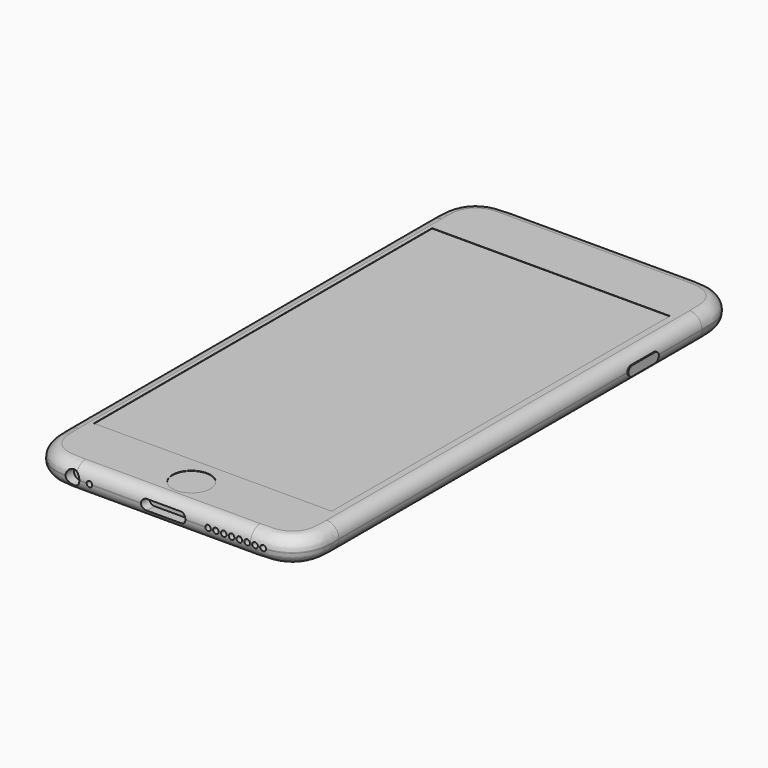
from build123d import *

# Parameters (mm, degrees)
F0_R           = 2.055
F0_R_2         = 0.8
F0_R_3         = 3.83
F1_DEPTH       = 7.3
F2_DEPTH       = 0.67
F3_DEPTH       = 0.1
F4_R           = 5.45
F5_DEPTH       = 0.1
F4_W           = 68.36
F4_H           = 121.54
F6_DEPTH       = 0.1
F10_R          = 3.55
F11_DEPTH      = 3
F11_DEPTH_BACK = 1
F7_R           = 0.8
F13_DEPTH      = 0.3
F14_DEPTH      = 0.3
F15_DEPTH      = 0.43


with BuildPart() as f1:
    # F0 (on Top) → F1 (new body)
    with BuildSketch(Plane.XY):
        with BuildLine():
            Line((-25.09, -79.36), (25.09, -79.36))
            add(Edge.make_bspline(
                [(25.09, -79.36), (25.59, -79.36), (29.3970719372, -79.3863132945), (32.8157812057, -78.6105951637), (36.313364005, -76.453364005), (38.4705951637, -72.9557812057), (39.2463132945, -69.5370719372), (39.22, -65.73), (39.22, -65.23)],
                knots=[0, 0, 0, 0, 0.1670203426, 0.3335413986, 0.5, 0.6664586014, 0.8329796574, 1, 1, 1, 1], degree=3))
            Line((39.22, -65.23), (39.22, 65.23))
            add(Edge.make_bspline(
                [(25.09, 79.36), (25.59, 79.36), (29.3970719372, 79.3863132945), (32.8157812057, 78.6105951637), (36.313364005, 76.453364005), (38.4705951637, 72.9557812057), (39.2463132945, 69.5370719372), (39.22, 65.73), (39.22, 65.23)],
                knots=[0, 0, 0, 0, 0.1670203426, 0.3335413986, 0.5, 0.6664586014, 0.8329796574, 1, 1, 1, 1], degree=3))
            Line((25.09, 79.36), (-25.09, 79.36))
            add(Edge.make_bspline(
                [(-25.09, 79.36), (-25.59, 79.36), (-29.3970719372, 79.3863132945), (-32.8157812057, 78.6105951637), (-36.313364005, 76.453364005), (-38.4705951637, 72.9557812057), (-39.2463132945, 69.5370719372), (-39.22, 65.73), (-39.22, 65.23)],
                knots=[0, 0, 0, 0, 0.1670203426, 0.3335413986, 0.5, 0.6664586014, 0.8329796574, 1, 1, 1, 1], degree=3))
            Line((-39.22, 65.23), (-39.22, -65.23))
            add(Edge.make_bspline(
                [(-25.09, -79.36), (-25.59, -79.36), (-29.3970719372, -79.3863132945), (-32.8157812057, -78.6105951637), (-36.313364005, -76.453364005), (-38.4705951637, -72.9557812057), (-39.2463132945, -69.5370719372), (-39.22, -65.73), (-39.22, -65.23)],
                knots=[0, 0, 0, 0, 0.1670203426, 0.3335413986, 0.5, 0.6664586014, 0.8329796574, 1, 1, 1, 1], degree=3))
        make_face()
        with Locations((13.06, 72.09)):
            Circle(F0_R, mode=Mode.SUBTRACT)
        with Locations((18.16, 72.09)):
            Circle(F0_R_2, mode=Mode.SUBTRACT)
        with Locations((25.12, 72.09)):
            Circle(F0_R_3, mode=Mode.SUBTRACT)
        with Locations((25.12, 72.09)):
            Circle(F0_R_3)
        with Locations((18.16, 72.09)):
            Circle(F0_R_2)
        with Locations((13.06, 72.09)):
            Circle(F0_R)
    extrude(amount=F1_DEPTH)

    # F0 (on Top) → F2 (join)
    with BuildSketch(Plane.XY):
        with Locations((25.12, 72.09)):
            Circle(F0_R_3)
    extrude(amount=-F2_DEPTH)

    # F0 (on Top) → F3 (cut)
    with BuildSketch(Plane.XY):
        with Locations((13.06, 72.09)):
            Circle(F0_R)
        with Locations((18.16, 72.09)):
            Circle(F0_R_2)
    extrude(amount=F3_DEPTH, mode=Mode.SUBTRACT)

    # F4 (on face) → F5 (cut)
    with BuildSketch(Plane.XY.offset(7.3)):
        with Locations((0.32, -69.6)):
            Circle(F4_R)
    extrude(amount=-F5_DEPTH, mode=Mode.SUBTRACT)

    # F4 (on face) → F6 (cut)
    with BuildSketch(Plane.XY.offset(7.3)):
        with Locations((-0.33, -0.33)):
            Rectangle(F4_W, F4_H)
    extrude(amount=-F6_DEPTH, mode=Mode.SUBTRACT)

    # F10
    f10_edges = [f1.edges().sort_by_distance(p)[0] for p in [
        (0, 79.36, 0),
        (0, 79.36, 7.3),
    ]]
    fillet(f10_edges, radius=F10_R)


with BuildPart() as f11:
    # F7 (on face) → F11 (new body, two sides)
    with BuildSketch(Plane.XZ.offset(79.36)) as f11_sk:
        with BuildLine():
            Line((-25.09, 1.9064117459), (-25.09, 5.3935882541))
            ThreePointArc((-25.09, 5.3935882541), (-28.1, 3.65), (-25.09, 1.9064117459))
        make_face()
        with BuildLine():
            ThreePointArc((-25.09, 1.9064117459), (-24.350732913, 2.6425031017), (-24.08, 3.65))
            ThreePointArc((-24.08, 3.65), (-24.350732913, 4.6574968983), (-25.09, 5.3935882541))
            Line((-25.09, 5.3935882541), (-25.09, 1.9064117459))
        make_face()
    extrude(amount=-F11_DEPTH)
    extrude(f11_sk.sketch, amount=F11_DEPTH_BACK)


with BuildPart() as f11b:
    # F7 (on face) → F11, piece 2 (new body, two sides)
    with BuildSketch(Plane.XZ.offset(79.36)) as f11_2_sk:
        with Locations((-21.2, 3.65)):
            Circle(F7_R)
    extrude(amount=-F11_DEPTH)
    extrude(f11_2_sk.sketch, amount=F11_DEPTH_BACK)


with BuildPart() as f11c:
    # F7 (on face) → F11, piece 3 (new body, two sides)
    with BuildSketch(Plane.XZ.offset(79.36)) as f11_3_sk:
        with BuildLine():
            Line((4.92, 5.125), (-4.92, 5.125))
            ThreePointArc((-4.92, 5.125), (-6.395, 3.65), (-4.92, 2.175))
            Line((-4.92, 2.175), (4.92, 2.175))
            ThreePointArc((4.92, 2.175), (5.9629825023, 2.6070174977), (6.395, 3.65))
            ThreePointArc((6.395, 3.65), (5.9629825023, 4.6929825023), (4.92, 5.125))
        make_face()
    extrude(amount=-F11_DEPTH)
    extrude(f11_3_sk.sketch, amount=F11_DEPTH_BACK)


with BuildPart() as f11d:
    # F7 (on face) → F11, piece 4 (new body, two sides)
    with BuildSketch(Plane.XZ.offset(79.36)) as f11_4_sk:
        with Locations((12.9, 3.65)):
            Circle(F7_R)
    extrude(amount=-F11_DEPTH)
    extrude(f11_4_sk.sketch, amount=F11_DEPTH_BACK)


with BuildPart() as f11e:
    # F7 (on face) → F11, piece 5 (new body, two sides)
    with BuildSketch(Plane.XZ.offset(79.36)) as f11_5_sk:
        with Locations((15.15, 3.65)):
            Circle(F7_R)
    extrude(amount=-F11_DEPTH)
    extrude(f11_5_sk.sketch, amount=F11_DEPTH_BACK)


with BuildPart() as f11f:
    # F7 (on face) → F11, piece 6 (new body, two sides)
    with BuildSketch(Plane.XZ.offset(79.36)) as f11_6_sk:
        with Locations((17.4, 3.65)):
            Circle(F7_R)
    extrude(amount=-F11_DEPTH)
    extrude(f11_6_sk.sketch, amount=F11_DEPTH_BACK)


with BuildPart() as f11g:
    # F7 (on face) → F11, piece 7 (new body, two sides)
    with BuildSketch(Plane.XZ.offset(79.36)) as f11_7_sk:
        with Locations((19.65, 3.65)):
            Circle(F7_R)
    extrude(amount=-F11_DEPTH)
    extrude(f11_7_sk.sketch, amount=F11_DEPTH_BACK)


with BuildPart() as f11h:
    # F7 (on face) → F11, piece 8 (new body, two sides)
    with BuildSketch(Plane.XZ.offset(79.36)) as f11_8_sk:
        with Locations((21.9, 3.65)):
            Circle(F7_R)
    extrude(amount=-F11_DEPTH)
    extrude(f11_8_sk.sketch, amount=F11_DEPTH_BACK)


with BuildPart() as f11i:
    # F7 (on face) → F11, piece 9 (new body, two sides)
    with BuildSketch(Plane.XZ.offset(79.36)) as f11_9_sk:
        with Locations((24.15, 3.65)):
            Circle(F7_R)
    extrude(amount=-F11_DEPTH)
    extrude(f11_9_sk.sketch, amount=F11_DEPTH_BACK)


with BuildPart() as f11j:
    # F7 (on face) → F11, piece 10 (new body, two sides)
    with BuildSketch(Plane.XZ.offset(79.36)) as f11_10_sk:
        with Locations((26.4, 3.65)):
            Circle(F7_R)
    extrude(amount=-F11_DEPTH)
    extrude(f11_10_sk.sketch, amount=F11_DEPTH_BACK)


with BuildPart() as f11k:
    # F7 (on face) → F11, piece 11 (new body, two sides)
    with BuildSketch(Plane.XZ.offset(79.36)) as f11_11_sk:
        with Locations((28.65, 3.65)):
            Circle(F7_R)
    extrude(amount=-F11_DEPTH)
    extrude(f11_11_sk.sketch, amount=F11_DEPTH_BACK)


with BuildPart() as f1_1:
    add(f1.part)

    # F12: cut F11, F11b, F11d, F11e, F11f, F11g, F11h, F11i, F11j, F11k, F11c
    add(f11.part, mode=Mode.SUBTRACT)
    add(f11b.part, mode=Mode.SUBTRACT)
    add(f11d.part, mode=Mode.SUBTRACT)
    add(f11e.part, mode=Mode.SUBTRACT)
    add(f11f.part, mode=Mode.SUBTRACT)
    add(f11g.part, mode=Mode.SUBTRACT)
    add(f11h.part, mode=Mode.SUBTRACT)
    add(f11i.part, mode=Mode.SUBTRACT)
    add(f11j.part, mode=Mode.SUBTRACT)
    add(f11k.part, mode=Mode.SUBTRACT)
    add(f11c.part, mode=Mode.SUBTRACT)

    # F8 (on face) → F13 (join)
    with BuildSketch(Plane.YZ.offset(39.22)):
        with BuildLine():
            ThreePointArc((39.81, 5.05), (38.41, 3.65), (39.81, 2.25))
            Line((39.81, 2.25), (47.95, 2.25))
            ThreePointArc((47.95, 2.25), (49.35, 3.65), (47.95, 5.05))
            Line((47.95, 5.05), (39.81, 5.05))
        make_face()
    extrude(amount=F13_DEPTH)

    # F9 (on face) → F14 (join)
    with BuildSketch(Plane(origin=(-39.22, 0, 0), x_dir=(0, -1, 0), z_dir=(-1, 0, 0))):
        with BuildLine():
            ThreePointArc((-35.27, 5.03), (-36.67, 3.63), (-35.27, 2.23))
            Line((-35.27, 2.23), (-27.13, 2.23))
            ThreePointArc((-27.13, 2.23), (-25.73, 3.63), (-27.13, 5.03))
            Line((-27.13, 5.03), (-35.27, 5.03))
        make_face()
        with BuildLine():
            ThreePointArc((-47.88, 5.03), (-49.28, 3.63), (-47.88, 2.23))
            Line((-47.88, 2.23), (-39.74, 2.23))
            ThreePointArc((-39.74, 2.23), (-38.34, 3.63), (-39.74, 5.03))
            Line((-39.74, 5.03), (-47.88, 5.03))
        make_face()
    extrude(amount=F14_DEPTH)

    # F9 (on face) → F15 (join)
    with BuildSketch(Plane(origin=(-39.22, 0, 0), x_dir=(0, -1, 0), z_dir=(-1, 0, 0))):
        with BuildLine():
            ThreePointArc((-59.595, 4.63), (-60.58, 3.645), (-59.595, 2.66))
            Line((-59.595, 2.66), (-55.955, 2.66))
            ThreePointArc((-55.955, 2.66), (-54.97, 3.645), (-55.955, 4.63))
            Line((-55.955, 4.63), (-59.595, 4.63))
        make_face()
    extrude(amount=F15_DEPTH)


solid = f1_1.part
